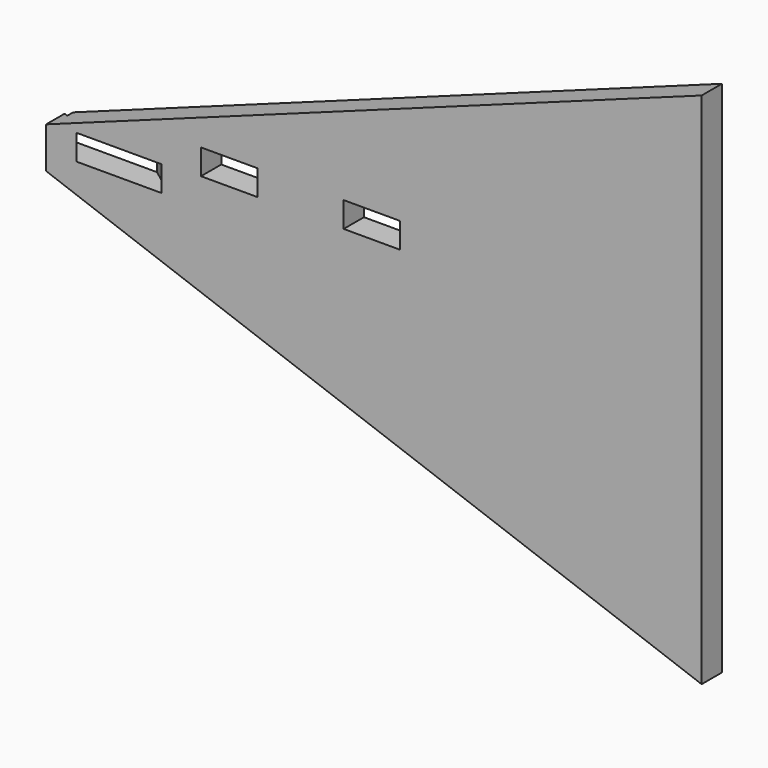
from build123d import *

# Parameters (mm, degrees)
BOX005_W               = 10
BOX005_H               = 154
BOX005_DEPTH           = 4.5
BOX005_PLACEMENT_ANGLE = 53
BOX001_W               = 10
BOX001_H               = 232
BOX001_DEPTH           = 4.5
BOX_W                  = 10
BOX_H                  = 232
BOX_DEPTH              = 4.5
PAD_DEPTH              = 4.5


with BuildPart() as left_front_spar:
    # Box005 → Box005 (new body)
    with BuildSketch(Plane.XY):
        with Locations((5, 77)):
            Rectangle(BOX005_W, BOX005_H)
    extrude(amount=BOX005_DEPTH)


with BuildPart() as left_front_spar_1:
    # Box005 placement: moved
    add(left_front_spar.part.moved(Location((152.246967, -91.722363, -2.4))).rotate(Axis((152.246967, -91.722363, -2.4), (0, 0, 1)), BOX005_PLACEMENT_ANGLE))


with BuildPart() as cube001:
    # Box001 → Box001 (new body)
    with BuildSketch(Plane(origin=(164.7, -92.4, 2.5), x_dir=(1, 0, 0), z_dir=(0, 0, 1))):
        with Locations((5, 116)):
            Rectangle(BOX001_W, BOX001_H)
    extrude(amount=BOX001_DEPTH)


with BuildPart() as cube:
    # Box → Box (new body)
    with BuildSketch(Plane(origin=(190, -89.9, 2.5), x_dir=(1, 0, 0), z_dir=(0, 0, 1))):
        with Locations((5, 116)):
            Rectangle(BOX_W, BOX_H)
    extrude(amount=BOX_DEPTH)


with BuildPart() as cut029:
    # Sketch → Pad (new body)
    with BuildSketch(Plane.XZ):
        Polygon((-112.766838, 5.66261), (-112.766838, -1.625728), (3.473136, -43.933619), (3.473136, 47.970501), align=None)
    extrude(amount=PAD_DEPTH)


with BuildPart() as cut029_1:
    # Body placement: moved
    add(cut029.part.moved(Location((250, -80, -4))))

    # Cut010: cut Cube
    add(cube.part, mode=Mode.SUBTRACT)

    # Cut022: cut Cube001
    add(cube001.part, mode=Mode.SUBTRACT)

    # Cut029: cut left front spar
    add(left_front_spar_1.part, mode=Mode.SUBTRACT)


solid = cut029_1.part
